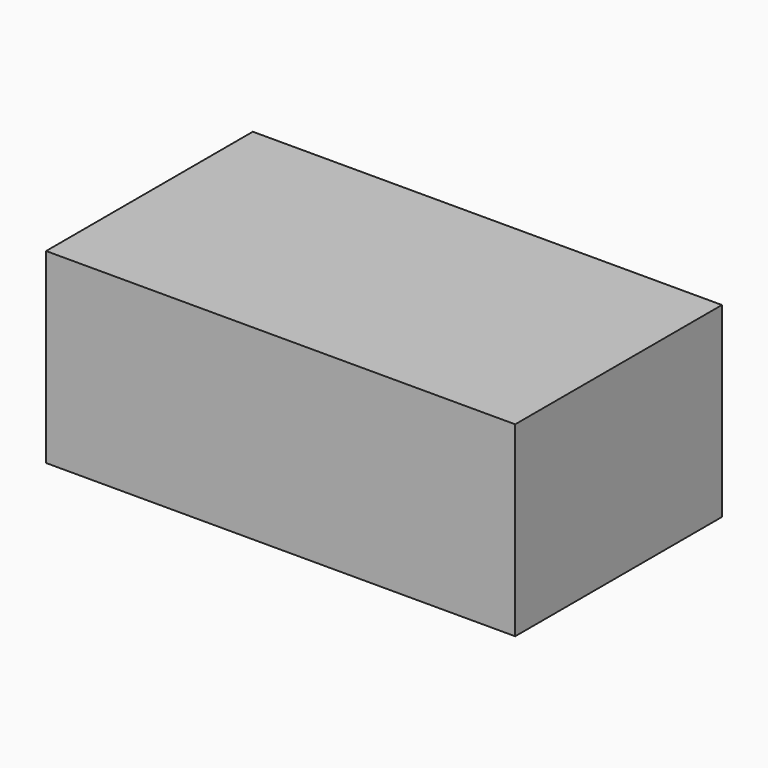
from build123d import *

# Parameters (mm, degrees)
F0_W     = 22.751659
F0_H     = 19.907701
F1_DEPTH = 12.7


with BuildPart() as f1:
    # F0 (on Top) → F1 (new body, symmetric)
    with BuildSketch(Plane.XY):
        Polygon((0, 15.262571), (0, 0), (63.8441, 0), (63.8441, 35.170272), (22.751659, 35.170272), (22.751659, 15.262571), align=None)
        with Locations((11.37583, 25.216421)):
            Rectangle(F0_W, F0_H)
    extrude(amount=F1_DEPTH, both=True)


solid = f1.part
